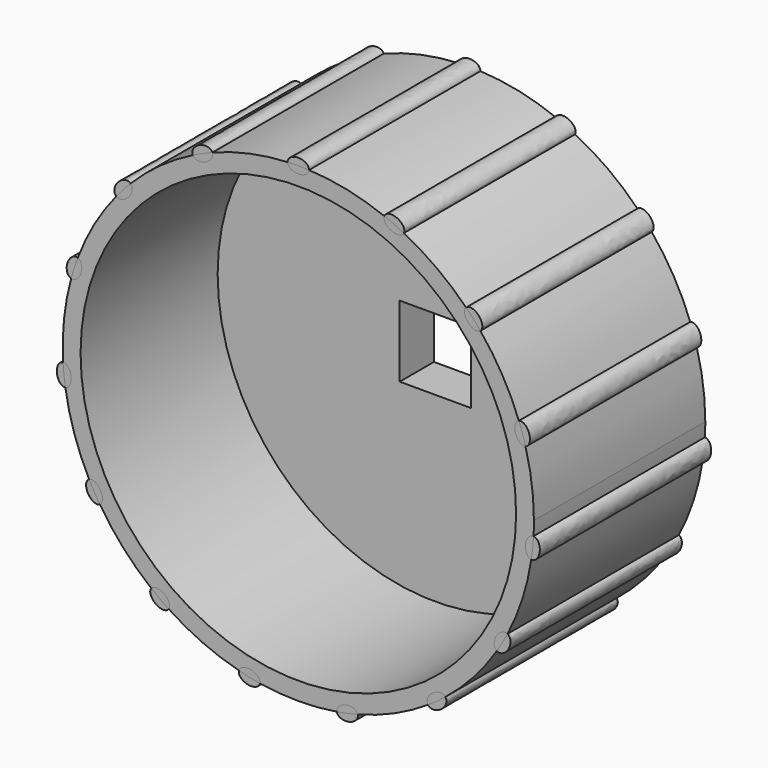
from build123d import *

# Parameters (mm, degrees)
F1_R     = 16.5
F2_DEPTH = 15
F3_R     = 15.25
F4_DEPTH = 12
F6_DEPTH = 15
F7_W     = 5
F7_H     = 5
F8_DEPTH = 3


with BuildPart() as f2:
    # F1 (on face) → F2 (new body)
    with BuildSketch(Plane.XZ):
        Circle(F1_R)
    extrude(amount=F2_DEPTH)

    # F3 (on face) → F4 (cut)
    with BuildSketch(Plane.XZ.offset(15)):
        Circle(F3_R)
    extrude(amount=-F4_DEPTH, mode=Mode.SUBTRACT)

    # F5 (on face) → F6 (join)
    with BuildSketch(Plane.XZ):
        with BuildLine():
            add(Edge.make_bspline(
                [(0, 15.999437), (1.81066, 15.999437), (0.53033, 16.852991), (-0.75, 17.706544), (-0.75, 16.499437)],
                knots=[1.570796, 1.570796, 1.570796, 3.926991, 3.926991, 6.283185, 6.283185, 6.283185], degree=2, weights=[1, 0.382683, 1, 0.382683, 1]))
            add(Edge.make_bspline(
                [(-0.75, 16.499437), (-0.75, 15.999437), (0, 15.999437)],
                knots=[0, 0, 0, 1.570796, 1.570796, 1.570796], degree=2, weights=[1, 0.707107, 1]))
        make_face()
        with BuildLine():
            add(Edge.make_bspline(
                [(-7.396085, 14.767934), (-7.043841, 13.97678), (-6.192224, 14.829936), (-5.340608, 15.683091), (-6.544468, 15.621089), (-7.748329, 15.559087), (-7.396085, 14.767934)],
                knots=[0, 0, 0, 2.094395, 2.094395, 4.18879, 4.18879, 6.283185, 6.283185, 6.283185], degree=2, weights=[1, 0.5, 1, 0.5, 1, 0.5, 1]))
        make_face()
        with BuildLine():
            add(Edge.make_bspline(
                [(-12.763319, 10.48292), (-12.119737, 9.903436), (-11.688756, 11.029216), (-11.257776, 12.154996), (-12.332339, 11.6087), (-13.406902, 11.062404), (-12.763319, 10.48292)],
                knots=[0, 0, 0, 2.094395, 2.094395, 4.18879, 4.18879, 6.283185, 6.283185, 6.283185], degree=2, weights=[1, 0.5, 1, 0.5, 1, 0.5, 1]))
        make_face()
        with BuildLine():
            add(Edge.make_bspline(
                [(-15.92366, 4.385314), (-15.100021, 4.117698), (-15.164197, 5.321444), (-15.228372, 6.525191), (-15.987836, 5.589061), (-16.747299, 4.652931), (-15.92366, 4.385314)],
                knots=[0, 0, 0, 2.094395, 2.094395, 4.18879, 4.18879, 6.283185, 6.283185, 6.283185], degree=2, weights=[1, 0.5, 1, 0.5, 1, 0.5, 1]))
        make_face()
        with BuildLine():
            add(Edge.make_bspline(
                [(-16.330655, -2.470552), (-15.469374, -2.380028), (-16.017609, -1.306453), (-16.565844, -0.232878), (-16.878891, -1.396977), (-17.191937, -2.561077), (-16.330655, -2.470552)],
                knots=[0, 0, 0, 2.094395, 2.094395, 4.18879, 4.18879, 6.283185, 6.283185, 6.283185], degree=2, weights=[1, 0.5, 1, 0.5, 1, 0.5, 1]))
        make_face()
        with BuildLine():
            add(Edge.make_bspline(
                [(-13.913932, -8.899238), (-13.163932, -8.466225), (-14.101432, -7.708453), (-15.038932, -6.950681), (-14.851432, -8.141466), (-14.663932, -9.33225), (-13.913932, -8.899238)],
                knots=[0, 0, 0, 2.094395, 2.094395, 4.18879, 4.18879, 6.283185, 6.283185, 6.283185], degree=2, weights=[1, 0.5, 1, 0.5, 1, 0.5, 1]))
        make_face()
        with BuildLine():
            add(Edge.make_bspline(
                [(-9.091363, -13.789164), (-8.582326, -13.088535), (-9.746989, -12.777591), (-10.911651, -12.466647), (-10.256026, -13.47822), (-9.6004, -14.489793), (-9.091363, -13.789164)],
                knots=[0, 0, 0, 2.094395, 2.094395, 4.18879, 4.18879, 6.283185, 6.283185, 6.283185], degree=2, weights=[1, 0.5, 1, 0.5, 1, 0.5, 1]))
        make_face()
        with BuildLine():
            add(Edge.make_bspline(
                [(-2.696815, -16.294819), (-2.516758, -15.447718), (-3.707203, -15.637368), (-4.897647, -15.827018), (-3.88726, -16.484469), (-2.876872, -17.14192), (-2.696815, -16.294819)],
                knots=[0, 0, 0, 2.094395, 2.094395, 4.18879, 4.18879, 6.283185, 6.283185, 6.283185], degree=2, weights=[1, 0.5, 1, 0.5, 1, 0.5, 1]))
        make_face()
        with BuildLine():
            add(Edge.make_bspline(
                [(4.164037, -15.982951), (3.98398, -15.135851), (2.973592, -15.793302), (1.963205, -16.450753), (3.153649, -16.640402), (4.344093, -16.830052), (4.164037, -15.982951)],
                knots=[0, 0, 0, 2.094395, 2.094395, 4.18879, 4.18879, 6.283185, 6.283185, 6.283185], degree=2, weights=[1, 0.5, 1, 0.5, 1, 0.5, 1]))
        make_face()
        with BuildLine():
            add(Edge.make_bspline(
                [(10.304889, -12.907486), (9.795852, -12.206857), (9.140226, -13.21843), (8.4846, -14.230003), (9.649263, -13.919059), (10.813926, -13.608116), (10.304889, -12.907486)],
                knots=[0, 0, 0, 2.094395, 2.094395, 4.18879, 4.18879, 6.283185, 6.283185, 6.283185], degree=2, weights=[1, 0.5, 1, 0.5, 1, 0.5, 1]))
        make_face()
        with BuildLine():
            add(Edge.make_bspline(
                [(14.663932, -7.6002), (13.913932, -7.167187), (13.726432, -8.357972), (13.538932, -9.548757), (14.476432, -8.790985), (15.413932, -8.033212), (14.663932, -7.6002)],
                knots=[0, 0, 0, 2.094395, 2.094395, 4.18879, 4.18879, 6.283185, 6.283185, 6.283185], degree=2, weights=[1, 0.5, 1, 0.5, 1, 0.5, 1]))
        make_face()
        with BuildLine():
            add(Edge.make_bspline(
                [(16.487448, -0.978769), (15.626167, -0.888245), (15.939213, -2.052344), (16.252259, -3.216444), (16.800494, -2.142869), (17.348729, -1.069294), (16.487448, -0.978769)],
                knots=[0, 0, 0, 2.094395, 2.094395, 4.18879, 4.18879, 6.283185, 6.283185, 6.283185], degree=2, weights=[1, 0.5, 1, 0.5, 1, 0.5, 1]))
        make_face()
        with BuildLine():
            add(Edge.make_bspline(
                [(15.460135, 5.811899), (14.636496, 5.544282), (15.395959, 4.608152), (16.155423, 3.672022), (16.219598, 4.875769), (16.283774, 6.079516), (15.460135, 5.811899)],
                knots=[0, 0, 0, 2.094395, 2.094395, 4.18879, 4.18879, 6.283185, 6.283185, 6.283185], degree=2, weights=[1, 0.5, 1, 0.5, 1, 0.5, 1]))
        make_face()
        with BuildLine():
            add(Edge.make_bspline(
                [(11.759624, 11.597637), (11.116041, 11.018153), (12.190604, 10.471857), (13.265167, 9.925561), (12.834187, 11.051341), (12.403206, 12.177121), (11.759624, 11.597637)],
                knots=[0, 0, 0, 2.094395, 2.094395, 4.18879, 4.18879, 6.283185, 6.283185, 6.283185], degree=2, weights=[1, 0.5, 1, 0.5, 1, 0.5, 1]))
        make_face()
        with BuildLine():
            add(Edge.make_bspline(
                [(6.025767, 15.378039), (5.673522, 14.586885), (6.877383, 14.524883), (8.081244, 14.462881), (7.229627, 15.316037), (6.378011, 16.169192), (6.025767, 15.378039)],
                knots=[0, 0, 0, 2.094395, 2.094395, 4.18879, 4.18879, 6.283185, 6.283185, 6.283185], degree=2, weights=[1, 0.5, 1, 0.5, 1, 0.5, 1]))
        make_face()
    extrude(amount=F6_DEPTH)

    # F7 (on face) → F8 (cut)
    with BuildSketch(Plane.XZ):
        Rectangle(F7_W, F7_H)
    extrude(amount=F8_DEPTH, mode=Mode.SUBTRACT)


solid = f2.part
